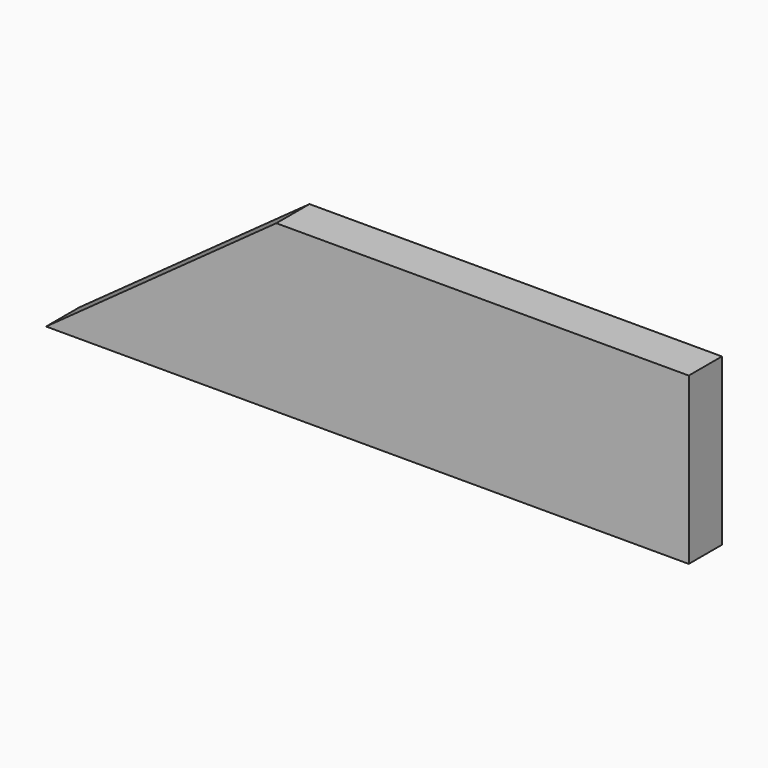
from build123d import *

# Parameters (mm, degrees)
F0_W     = 126.3617668301
F0_H     = 50.8079603314
F1_DEPTH = 12.7


with BuildPart() as f1:
    # F0 (on Front) → F1 (new body)
    with BuildSketch(Plane.XZ):
        Polygon((-29.9015957862, -27.7732629329), (-29.9015957862, 23.0346973985), (-100.4535853863, -27.7732629329), align=None)
        with Locations((33.2792876288, -2.3692827672)):
            Rectangle(F0_W, F0_H)
    extrude(amount=F1_DEPTH)


solid = f1.part
